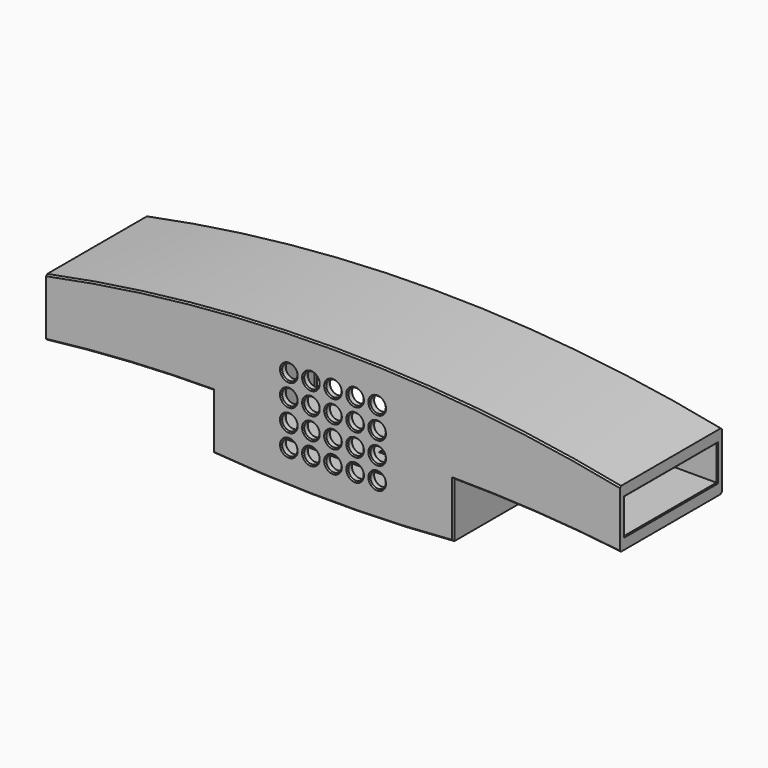
from build123d import *

# Parameters (mm, degrees)
PAD_DEPTH        = 44
SKETCH001_W      = 79.5
SKETCH001_H      = 39.5
POCKET_DEPTH     = 42
SKETCH003_W      = 79.5
SKETCH003_H      = 39.5
PAD001_DEPTH     = 11
SKETCH004_W      = 75.5
SKETCH004_H      = 35.5
POCKET001_DEPTH  = 11
HOLE_D           = 5.3
HOLE_DEPTH       = 25
HOLE_CSINK_D     = 6.1
HOLE_CSINK_ANGLE = 90
HOLE_TIPS_R      = 2.65
SKETCH056_W      = 7
SKETCH056_H      = 30
POCKET017_DEPTH  = 61.3
SKETCH054_W      = 7
SKETCH054_H      = 30
POCKET019_DEPTH  = 61.3
SKETCH057_W      = 12
SKETCH057_H      = 40
POCKET018_DEPTH  = 31
SKETCH055_W      = 12
SKETCH055_H      = 40
POCKET020_DEPTH  = 31
SKETCH005_W      = 15
SKETCH005_H      = 10
POCKET002_DEPTH  = 5
SKETCH058_W      = 81.5
SKETCH058_H      = 41.5
POCKET021_DEPTH  = 2
CHAMFER_SIZE     = 0.5
CHAMFER030_SIZE  = 0.3
CHAMFER031_SIZE  = 0.3


with BuildPart() as part:
    # Sketch → Pad (new body)
    with BuildSketch(Plane.XZ):
        with BuildLine():
            Line((99, 14), (99, -6))
            ThreePointArc((99, -6), (70.300448, -3.42122), (41.5, -2.5))
            Line((41.5, -21.5), (41.5, -2.5))
            ThreePointArc((-41.5, -21.5), (0, -23.225226), (41.5, -21.5))
            Line((-41.5, -2.5), (-41.5, -21.5))
            ThreePointArc((-41.5, -2.5), (-70.300448, -3.42122), (-99, -6))
            Line((-99, 14), (-99, -6))
            ThreePointArc((99, 14), (0, 23.89899), (-99, 14))
        make_face()
    extrude(amount=PAD_DEPTH)

    # Sketch001 (on DatumPlane) → Pocket (cut)
    with BuildSketch(Plane(origin=(0, 0, 0), x_dir=(1, 0, 0), z_dir=(0, 1, 0))):
        Rectangle(SKETCH001_W, SKETCH001_H)
    extrude(amount=-POCKET_DEPTH, mode=Mode.SUBTRACT)

    # Sketch003 → Pad001 (join)
    with BuildSketch(Plane(origin=(0, -42, 0), x_dir=(1, 0, 0), z_dir=(0, 1, 0))):
        Rectangle(SKETCH003_W, SKETCH003_H)
    extrude(amount=PAD001_DEPTH)

    # Sketch004 (on Face15 of Pad001) → Pocket001 (cut)
    with BuildSketch(Plane(origin=(0, -31, 0), x_dir=(1, 0, 0), z_dir=(0, 1, 0))):
        Rectangle(SKETCH004_W, SKETCH004_H)
    extrude(amount=-POCKET001_DEPTH, mode=Mode.SUBTRACT)

    # Hole
    with Locations(Plane.XZ.offset(44)):
        with Locations((-15.24, 11.43), (-7.62, 11.43), (0, 11.43), (7.62, 11.43), (15.24, 11.43), (-15.24, 3.81), (-7.62, 3.81), (0, 3.81), (7.62, 3.81), (15.24, 3.81), (-15.24, -3.81), (-7.62, -3.81), (0, -3.81), (7.62, -3.81), (15.24, -3.81), (-15.24, -11.43), (-7.62, -11.43), (0, -11.43), (7.62, -11.43), (15.24, -11.43)):
            CounterSinkHole(HOLE_D / 2, HOLE_CSINK_D / 2, depth=HOLE_DEPTH, counter_sink_angle=HOLE_CSINK_ANGLE)

    # Hole tips → Hole tip 1 section 0
    with BuildSketch(Plane.XZ.offset(19), mode=Mode.PRIVATE) as hole_tip_1_s0:
        with Locations((-15.24, 11.43)):
            Circle(HOLE_TIPS_R)
    loft([hole_tip_1_s0.sketch, Vertex(-15.24, -17.407719, 11.43)], mode=Mode.SUBTRACT)

    # Hole tips → Hole tip 2 section 0
    with BuildSketch(Plane.XZ.offset(19), mode=Mode.PRIVATE) as hole_tip_2_s0:
        with Locations((-7.62, 11.43)):
            Circle(HOLE_TIPS_R)
    loft([hole_tip_2_s0.sketch, Vertex(-7.62, -17.407719, 11.43)], mode=Mode.SUBTRACT)

    # Hole tips → Hole tip 3 section 0
    with BuildSketch(Plane.XZ.offset(19), mode=Mode.PRIVATE) as hole_tip_3_s0:
        with Locations((0, 11.43)):
            Circle(HOLE_TIPS_R)
    loft([hole_tip_3_s0.sketch, Vertex(0, -17.407719, 11.43)], mode=Mode.SUBTRACT)

    # Hole tips → Hole tip 4 section 0
    with BuildSketch(Plane.XZ.offset(19), mode=Mode.PRIVATE) as hole_tip_4_s0:
        with Locations((7.62, 11.43)):
            Circle(HOLE_TIPS_R)
    loft([hole_tip_4_s0.sketch, Vertex(7.62, -17.407719, 11.43)], mode=Mode.SUBTRACT)

    # Hole tips → Hole tip 5 section 0
    with BuildSketch(Plane.XZ.offset(19), mode=Mode.PRIVATE) as hole_tip_5_s0:
        with Locations((15.24, 11.43)):
            Circle(HOLE_TIPS_R)
    loft([hole_tip_5_s0.sketch, Vertex(15.24, -17.407719, 11.43)], mode=Mode.SUBTRACT)

    # Hole tips → Hole tip 6 section 0
    with BuildSketch(Plane.XZ.offset(19), mode=Mode.PRIVATE) as hole_tip_6_s0:
        with Locations((-15.24, 3.81)):
            Circle(HOLE_TIPS_R)
    loft([hole_tip_6_s0.sketch, Vertex(-15.24, -17.407719, 3.81)], mode=Mode.SUBTRACT)

    # Hole tips → Hole tip 7 section 0
    with BuildSketch(Plane.XZ.offset(19), mode=Mode.PRIVATE) as hole_tip_7_s0:
        with Locations((-7.62, 3.81)):
            Circle(HOLE_TIPS_R)
    loft([hole_tip_7_s0.sketch, Vertex(-7.62, -17.407719, 3.81)], mode=Mode.SUBTRACT)

    # Hole tips → Hole tip 8 section 0
    with BuildSketch(Plane.XZ.offset(19), mode=Mode.PRIVATE) as hole_tip_8_s0:
        with Locations((0, 3.81)):
            Circle(HOLE_TIPS_R)
    loft([hole_tip_8_s0.sketch, Vertex(0, -17.407719, 3.81)], mode=Mode.SUBTRACT)

    # Hole tips → Hole tip 9 section 0
    with BuildSketch(Plane.XZ.offset(19), mode=Mode.PRIVATE) as hole_tip_9_s0:
        with Locations((7.62, 3.81)):
            Circle(HOLE_TIPS_R)
    loft([hole_tip_9_s0.sketch, Vertex(7.62, -17.407719, 3.81)], mode=Mode.SUBTRACT)

    # Hole tips → Hole tip 10 section 0
    with BuildSketch(Plane.XZ.offset(19), mode=Mode.PRIVATE) as hole_tip_10_s0:
        with Locations((15.24, 3.81)):
            Circle(HOLE_TIPS_R)
    loft([hole_tip_10_s0.sketch, Vertex(15.24, -17.407719, 3.81)], mode=Mode.SUBTRACT)

    # Hole tips → Hole tip 11 section 0
    with BuildSketch(Plane.XZ.offset(19), mode=Mode.PRIVATE) as hole_tip_11_s0:
        with Locations((-15.24, -3.81)):
            Circle(HOLE_TIPS_R)
    loft([hole_tip_11_s0.sketch, Vertex(-15.24, -17.407719, -3.81)], mode=Mode.SUBTRACT)

    # Hole tips → Hole tip 12 section 0
    with BuildSketch(Plane.XZ.offset(19), mode=Mode.PRIVATE) as hole_tip_12_s0:
        with Locations((-7.62, -3.81)):
            Circle(HOLE_TIPS_R)
    loft([hole_tip_12_s0.sketch, Vertex(-7.62, -17.407719, -3.81)], mode=Mode.SUBTRACT)

    # Hole tips → Hole tip 13 section 0
    with BuildSketch(Plane.XZ.offset(19), mode=Mode.PRIVATE) as hole_tip_13_s0:
        with Locations((0, -3.81)):
            Circle(HOLE_TIPS_R)
    loft([hole_tip_13_s0.sketch, Vertex(0, -17.407719, -3.81)], mode=Mode.SUBTRACT)

    # Hole tips → Hole tip 14 section 0
    with BuildSketch(Plane.XZ.offset(19), mode=Mode.PRIVATE) as hole_tip_14_s0:
        with Locations((7.62, -3.81)):
            Circle(HOLE_TIPS_R)
    loft([hole_tip_14_s0.sketch, Vertex(7.62, -17.407719, -3.81)], mode=Mode.SUBTRACT)

    # Hole tips → Hole tip 15 section 0
    with BuildSketch(Plane.XZ.offset(19), mode=Mode.PRIVATE) as hole_tip_15_s0:
        with Locations((15.24, -3.81)):
            Circle(HOLE_TIPS_R)
    loft([hole_tip_15_s0.sketch, Vertex(15.24, -17.407719, -3.81)], mode=Mode.SUBTRACT)

    # Hole tips → Hole tip 16 section 0
    with BuildSketch(Plane.XZ.offset(19), mode=Mode.PRIVATE) as hole_tip_16_s0:
        with Locations((-15.24, -11.43)):
            Circle(HOLE_TIPS_R)
    loft([hole_tip_16_s0.sketch, Vertex(-15.24, -17.407719, -11.43)], mode=Mode.SUBTRACT)

    # Hole tips → Hole tip 17 section 0
    with BuildSketch(Plane.XZ.offset(19), mode=Mode.PRIVATE) as hole_tip_17_s0:
        with Locations((-7.62, -11.43)):
            Circle(HOLE_TIPS_R)
    loft([hole_tip_17_s0.sketch, Vertex(-7.62, -17.407719, -11.43)], mode=Mode.SUBTRACT)

    # Hole tips → Hole tip 18 section 0
    with BuildSketch(Plane.XZ.offset(19), mode=Mode.PRIVATE) as hole_tip_18_s0:
        with Locations((0, -11.43)):
            Circle(HOLE_TIPS_R)
    loft([hole_tip_18_s0.sketch, Vertex(0, -17.407719, -11.43)], mode=Mode.SUBTRACT)

    # Hole tips → Hole tip 19 section 0
    with BuildSketch(Plane.XZ.offset(19), mode=Mode.PRIVATE) as hole_tip_19_s0:
        with Locations((7.62, -11.43)):
            Circle(HOLE_TIPS_R)
    loft([hole_tip_19_s0.sketch, Vertex(7.62, -17.407719, -11.43)], mode=Mode.SUBTRACT)

    # Hole tips → Hole tip 20 section 0
    with BuildSketch(Plane.XZ.offset(19), mode=Mode.PRIVATE) as hole_tip_20_s0:
        with Locations((15.24, -11.43)):
            Circle(HOLE_TIPS_R)
    loft([hole_tip_20_s0.sketch, Vertex(15.24, -17.407719, -11.43)], mode=Mode.SUBTRACT)

    # Sketch056 → Pocket017 (cut)
    with BuildSketch(Plane(origin=(99, 0, 0), x_dir=(0, 0, 1), z_dir=(1, 0, 0))):
        with Locations((4, 22)):
            Rectangle(SKETCH056_W, SKETCH056_H)
    extrude(amount=-POCKET017_DEPTH, mode=Mode.SUBTRACT)

    # Sketch054 (on Face3 of Pocket) → Pocket019 (cut)
    with BuildSketch(Plane(origin=(-99, 0, 0), x_dir=(0, 0, -1), z_dir=(-1, 0, 0))):
        with Locations((-4, 22)):
            Rectangle(SKETCH054_W, SKETCH054_H)
    extrude(amount=-POCKET019_DEPTH, mode=Mode.SUBTRACT)

    # Sketch057 (on Face2 of Pocket017) → Pocket018 (cut)
    with BuildSketch(Plane(origin=(99, 0, 0), x_dir=(0, 0, 1), z_dir=(1, 0, 0))):
        with Locations((4, 22)):
            Rectangle(SKETCH057_W, SKETCH057_H)
    extrude(amount=-POCKET018_DEPTH, mode=Mode.SUBTRACT)

    # Sketch055 → Pocket020 (cut)
    with BuildSketch(Plane(origin=(-99, 0, 0), x_dir=(0, 0, -1), z_dir=(-1, 0, 0))):
        with Locations((-4, 22)):
            Rectangle(SKETCH055_W, SKETCH055_H)
    extrude(amount=-POCKET020_DEPTH, mode=Mode.SUBTRACT)

    # Sketch005 → Pocket002 (cut)
    with BuildSketch(Plane(origin=(0, 0, -19.75), x_dir=(-1, 0, 0), z_dir=(0, 0, 1))):
        with Locations((-3, 13)):
            Rectangle(SKETCH005_W, SKETCH005_H)
    extrude(amount=-POCKET002_DEPTH, mode=Mode.SUBTRACT)

    # Sketch058 (on Face4 of Pocket002) → Pocket021 (cut)
    with BuildSketch(Plane(origin=(0, 0, 0), x_dir=(1, 0, 0), z_dir=(0, 1, 0))):
        Rectangle(SKETCH058_W, SKETCH058_H)
    extrude(amount=-POCKET021_DEPTH, mode=Mode.SUBTRACT)

    # Chamfer
    chamfer_edges = [part.edges().sort_by_distance(p)[0] for p in [
        (70.300448, 0, -3.42122),
        (41.5, 0, -12),
        (0, 0, -23.225226),
        (-41.5, 0, -12),
        (-70.300448, 0, -3.42122),
        (0, 0, 23.89899),
        (0, -44, 23.89899),
        (-70.300448, -44, -3.42122),
        (70.300448, -44, -3.42122),
        (0, -44, -23.225226),
        (41.5, -44, -12),
        (-41.5, -44, -12),
    ]]
    chamfer(chamfer_edges, length=CHAMFER_SIZE)

    # Chamfer030
    chamfer030_edges = [part.edges().sort_by_distance(p)[0] for p in [
        (-99, -22, 10),
        (-99, -2, 4),
        (-99, -22, -2),
        (-99, -42, 4),
        (99, -22, 10),
        (99, -42, 4),
        (99, -22, -2),
        (99, -2, 4),
        (0, -2, 19.75),
        (-39.75, -2, 0),
        (0, -2, -19.75),
        (39.75, -2, 0),
    ]]
    chamfer(chamfer030_edges, length=CHAMFER030_SIZE)

    # Chamfer031
    chamfer031_edges = [part.edges().sort_by_distance(p)[0] for p in [
        (3, -18, -19.75),
        (10.5, -13, -19.75),
        (3, -8, -19.75),
        (-4.5, -13, -19.75),
        (3.000338, -18, -23.216224),
        (10.5, -13, -23.114964),
        (-4.5, -13, -23.204976),
        (3.000338, -8, -23.216224),
    ]]
    chamfer(chamfer031_edges, length=CHAMFER031_SIZE)


solid = part.part
